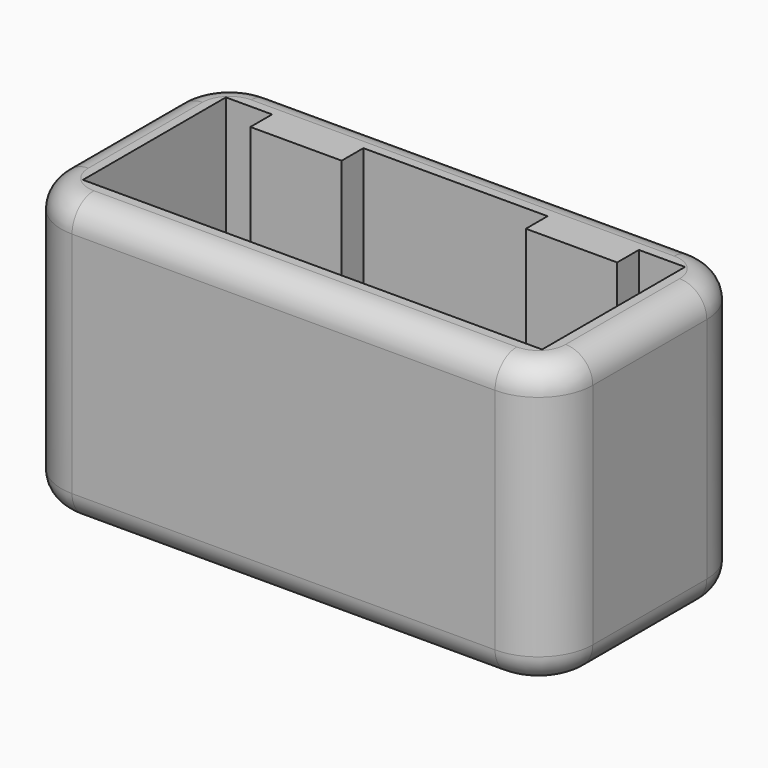
from build123d import *

# Parameters (mm, degrees)
F0_W     = 29.845
F0_H     = 14.097
F0_W_2   = 2.5929864331
F0_H_2   = 1.524
F0_W_3   = 10.3421728662
F1_DEPTH = 1.524
F2_DEPTH = 15.875
F3_D     = 6.35
F3_DEPTH = 6.731
F3_TIP   = 1.9077324654
F4_R     = 3.048
F5_R     = 1.524


with BuildPart() as f1:
    # F0 (on Top) → F1 (new body)
    with BuildSketch(Plane.XY):
        Rectangle(F0_W, F0_H)
        Polygon((10.2975135669, 5.0165), (12.8905, 5.0165), (12.8905, 3.4925), (12.8905, -5.0165), (-12.8905, -5.0165), (-12.8905, 3.4925), (-12.8905, 5.0165), (-10.2975135669, 5.0165), (-5.1710864331, 5.0165), (5.1710864331, 5.0165), align=None, mode=Mode.SUBTRACT)
        Polygon((12.8905, -5.0165), (12.8905, 3.4925), (10.2975135669, 3.4925), (7.7343, 3.4925), (5.1710864331, 3.4925), (-5.1710864331, 3.4925), (-7.7343, 3.4925), (-10.2975135669, 3.4925), (-12.8905, 3.4925), (-12.8905, -5.0165), align=None)
        with Locations((11.5940067835, 4.2545)):
            Rectangle(F0_W_2, F0_H_2)
        Polygon((10.2975135669, 3.4925), (10.2975135669, 5.0165), (5.1710864331, 5.0165), (5.1710864331, 3.4925), (7.7343, 3.4925), align=None)
        with Locations((0, 4.2545)):
            Rectangle(F0_W_3, F0_H_2)
        Polygon((-5.1710864331, 3.4925), (-5.1710864331, 5.0165), (-10.2975135669, 5.0165), (-10.2975135669, 3.4925), (-7.7343, 3.4925), align=None)
        with Locations((-11.5940067835, 4.2545)):
            Rectangle(F0_W_2, F0_H_2)
        Polygon((-5.1710864331, 3.4925), (-5.1710864331, 5.0165), (-10.2975135669, 5.0165), (-10.2975135669, 3.4925), (-7.7343, 3.4925), align=None)
        Polygon((10.2975135669, 3.4925), (10.2975135669, 5.0165), (5.1710864331, 5.0165), (5.1710864331, 3.4925), (7.7343, 3.4925), align=None)
    extrude(amount=F1_DEPTH)

    # F0 (on Top) → F2 (join)
    with BuildSketch(Plane.XY):
        Rectangle(F0_W, F0_H)
        Polygon((10.2975135669, 5.0165), (12.8905, 5.0165), (12.8905, 3.4925), (12.8905, -5.0165), (-12.8905, -5.0165), (-12.8905, 3.4925), (-12.8905, 5.0165), (-10.2975135669, 5.0165), (-5.1710864331, 5.0165), (5.1710864331, 5.0165), align=None, mode=Mode.SUBTRACT)
        Polygon((-5.1710864331, 3.4925), (-5.1710864331, 5.0165), (-10.2975135669, 5.0165), (-10.2975135669, 3.4925), (-7.7343, 3.4925), align=None)
        Polygon((10.2975135669, 3.4925), (10.2975135669, 5.0165), (5.1710864331, 5.0165), (5.1710864331, 3.4925), (7.7343, 3.4925), align=None)
    extrude(amount=F2_DEPTH)

    # F3
    with Locations(Plane(origin=(0, 0, 0), x_dir=(1, 0, 0), z_dir=(0, 0, -1))):
        with Locations((-7.7343, 0), (7.7343, 0)):
            Hole(F3_D / 2, depth=F3_DEPTH)
            with Locations((0, 0, -(F3_DEPTH + F3_TIP / 2))):  # 118° drill point
                Cone(0, F3_D / 2, F3_TIP, mode=Mode.SUBTRACT)

    # F4
    f4_edges = [f1.edges().sort_by_distance(p)[0] for p in [
        (-14.9225, 7.0485, 7.9375),
        (-14.9225, -7.0485, 7.9375),
        (14.9225, -7.0485, 7.9375),
        (14.9225, 7.0485, 7.9375),
    ]]
    fillet(f4_edges, radius=F4_R)

    # F5
    f5_edges = [f1.edges().sort_by_distance(p)[0] for p in [
        (0, -7.0485, 15.875),
        (0, 7.0485, 0),
    ]]
    fillet(f5_edges, radius=F5_R)


solid = f1.part
